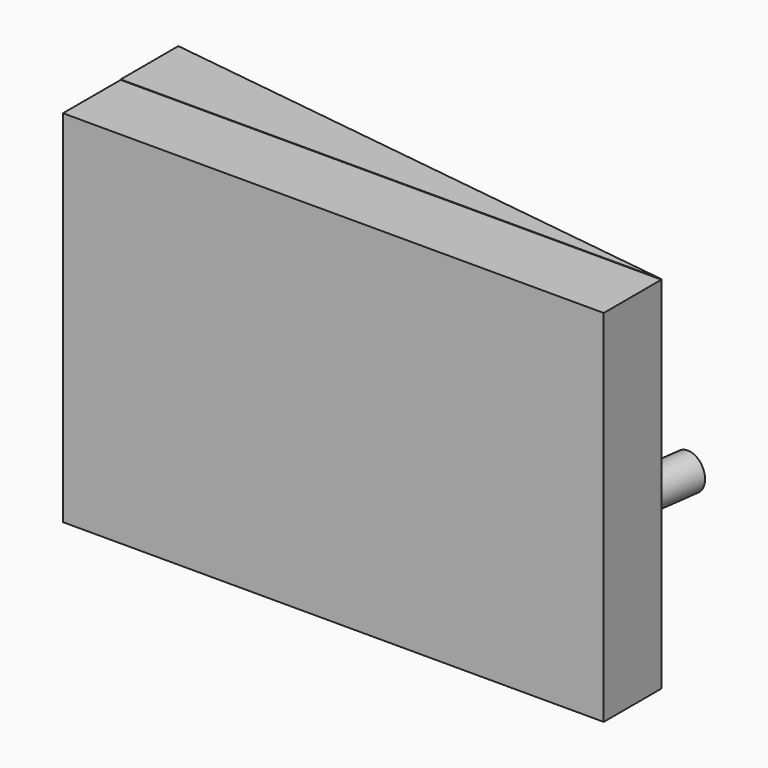
from build123d import *

# Parameters (mm, degrees)
F1_DEPTH = 100
F2_W     = 150
F2_H     = 99.866986
F3_DEPTH = 20
F4_R     = 5
F5_DEPTH = 15


with BuildPart() as f1:
    # F0 (on Top) → F1 (new body)
    with BuildSketch(Plane.XY):
        Polygon((-75, -10), (75, -10), (-75, 10), align=None)
    extrude(amount=F1_DEPTH)

    # F2 (on face) → F3 (join)
    with BuildSketch(Plane.XZ.offset(10)):
        with Locations((0, 49.933493)):
            Rectangle(F2_W, F2_H)
    extrude(amount=F3_DEPTH)

    # F4 (on face) → F5 (join)
    with BuildSketch(Plane(origin=(0, 0, 0), x_dir=(-0.991228, 0.132164, 0), z_dir=(0.132164, 0.991228, 0))):
        with Locations((-68.66373, 45)):
            Circle(F4_R)
    extrude(amount=F5_DEPTH)


solid = f1.part
